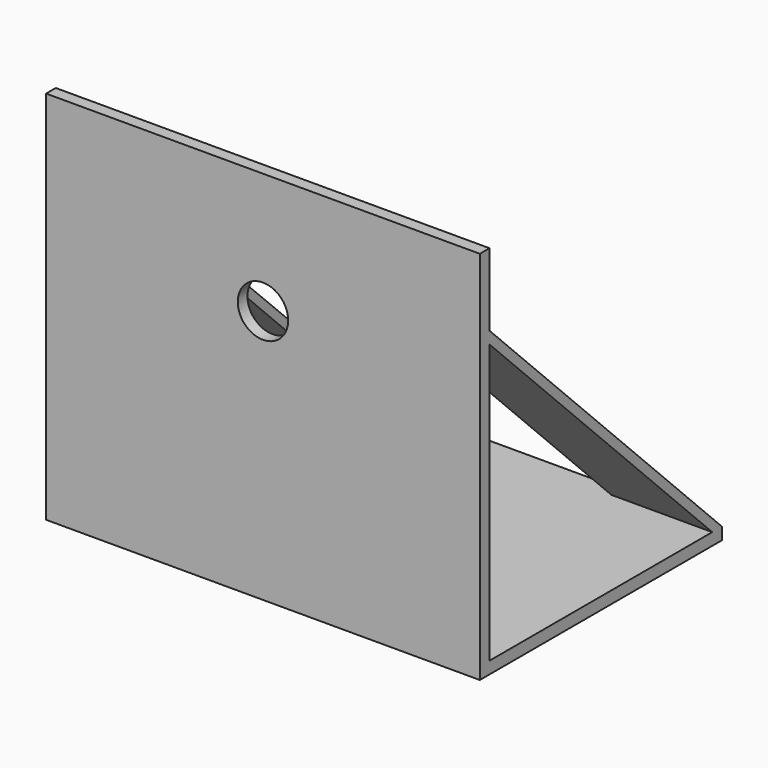
from build123d import *

# Parameters (mm, degrees)
F0_W     = 54.61
F0_H     = 38.1
F1_DEPTH = 1.524
F2_W     = 54.61
F2_H     = 1.524
F3_DEPTH = 45.72
F4_R     = 3.175
F5_DEPTH = 25.4
F7_DEPTH = 12.7
F9_DEPTH = 12.7


with BuildPart() as f1:
    # F0 (on Top) → F1 (new body)
    with BuildSketch(Plane.XY):
        Rectangle(F0_W, F0_H)
    extrude(amount=F1_DEPTH)

    # F2 (on face) → F3 (join)
    with BuildSketch(Plane.XY.offset(1.524)):
        with Locations((0, -18.288)):
            Rectangle(F2_W, F2_H)
    extrude(amount=F3_DEPTH)

    # F4 (on face) → F5 (cut)
    with BuildSketch(Plane.XZ.offset(19.05)):
        with Locations((0, 32.004)):
            Circle(F4_R)
    extrude(amount=-F5_DEPTH, mode=Mode.SUBTRACT)

    # F6 (on face) → F7 (join)
    with BuildSketch(Plane.YZ.offset(27.305)):
        Polygon((17.526, 1.524), (19.05, 1.524), (-17.526, 38.1), (-17.526, 36.576), align=None)
    extrude(amount=-F7_DEPTH)

    # F8 (on face) → F9 (join)
    with BuildSketch(Plane(origin=(-27.305, 0, 0), x_dir=(0, -1, 0), z_dir=(-1, 0, 0))):
        Polygon((17.526, 37.915688), (-19.05, 1.524), (-17.526, 1.524), (17.526, 36.576), align=None)
    extrude(amount=-F9_DEPTH)


solid = f1.part
